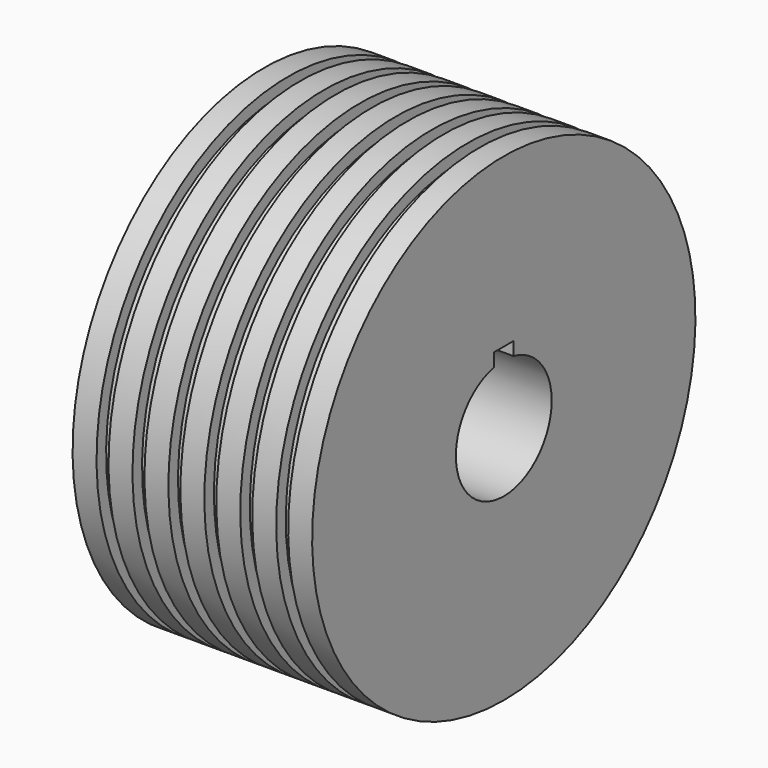
from build123d import *

# Parameters (mm, degrees)
F3_DEPTH = 100


with BuildPart() as f1:
    # F0 (on Front) → F1 (revolve)
    with BuildSketch(Plane.XZ):
        Polygon((40, -50), (50, -50), (50, 50), (-50, 50), (-50, -50), (-40, -50), (-40, -45), (-35, -45), (-35, -50), (-25, -50), (-25, -45), (-20, -45), (-20, -50), (-10, -50), (-10, -45), (-5, -45), (-5, -50), (5, -50), (5, -45), (10, -45), (10, -50), (20, -50), (20, -45), (25, -45), (25, -50), (35, -50), (35, -45), (40, -45), align=None)
    revolve(axis=Axis((0, 0, 50), (-1, 0, 0)))

    # F2 (on face) → F3 (cut)
    with BuildSketch(Plane(origin=(-50, 0, 0), x_dir=(0, -1, 0), z_dir=(-1, 0, 0))):
        with BuildLine():
            Line((-5, 80), (-5, 74.494897))
            ThreePointArc((-5, 74.494897), (0, 25), (5, 74.494897))
            Line((5, 74.494897), (5, 80))
            Line((5, 80), (0, 80))
            Line((0, 80), (-5, 80))
        make_face()
    extrude(amount=-F3_DEPTH, mode=Mode.SUBTRACT)


solid = f1.part
